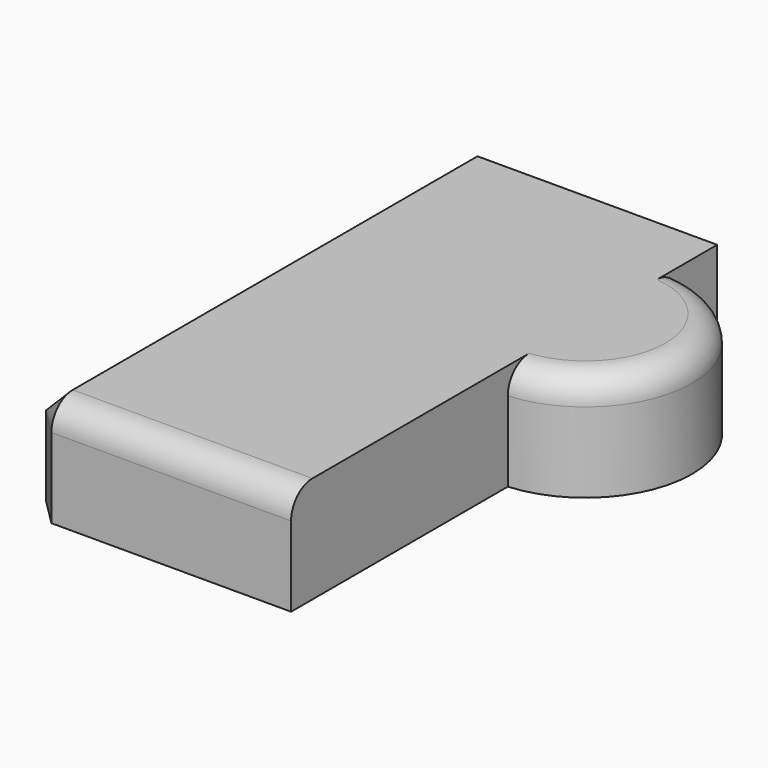
from build123d import *

# Parameters (mm, degrees)
PAD_DEPTH    = 4
FILLET_R     = 1
FILLET001_R  = 1
CHAMFER_SIZE = 1


with BuildPart() as part:
    # Sketch → Pad (new body)
    with BuildSketch(Plane.XY):
        with BuildLine():
            Line((-5, 10), (5, 10))
            Line((5, 10), (5, 8.174655))
            ThreePointArc((5, 0.170411), (8.719489, 4.172533), (5, 8.174655))
            Line((5, 0.170411), (5, -10))
            Line((5, -10), (-5, -10))
            Line((-5, -10), (-5, 10))
        make_face()
    extrude(amount=PAD_DEPTH)

    # Fillet
    fillet_edges = [part.edges().sort_by_distance(p)[0] for p in [
        (8.719489, 4.172533, 4),
    ]]
    fillet(fillet_edges, radius=FILLET_R)

    # Fillet001
    fillet001_edges = [part.edges().sort_by_distance(p)[0] for p in [
        (0, -10, 4),
    ]]
    fillet(fillet001_edges, radius=FILLET001_R)

    # Chamfer
    chamfer_edges = [part.edges().sort_by_distance(p)[0] for p in [
        (-5, 0.5, 4),
    ]]
    chamfer(chamfer_edges, length=CHAMFER_SIZE)


solid = part.part
